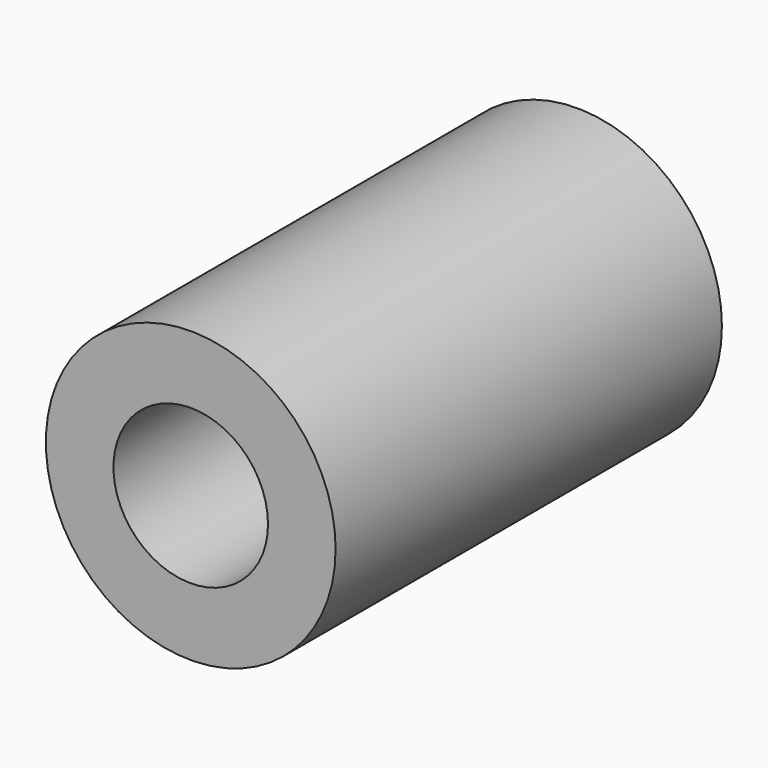
from build123d import *

# Parameters (mm, degrees)
F0_R           = 7.5
F1_DEPTH       = 25
F2_D           = 5
F2_DEPTH       = 25
F2_CBORE_D     = 8
F2_CBORE_DEPTH = 12.5


with BuildPart() as f1:
    # F0 (on Front) → F1 (new body)
    with BuildSketch(Plane.XZ):
        with Locations((-41.749481, 41.097142)):
            Circle(F0_R)
    extrude(amount=-F1_DEPTH)

    # F2
    with Locations(Plane.XZ):
        with Locations((-41.749481, 41.097142)):
            CounterBoreHole(F2_D / 2, F2_CBORE_D / 2, F2_CBORE_DEPTH, depth=F2_DEPTH)


solid = f1.part
